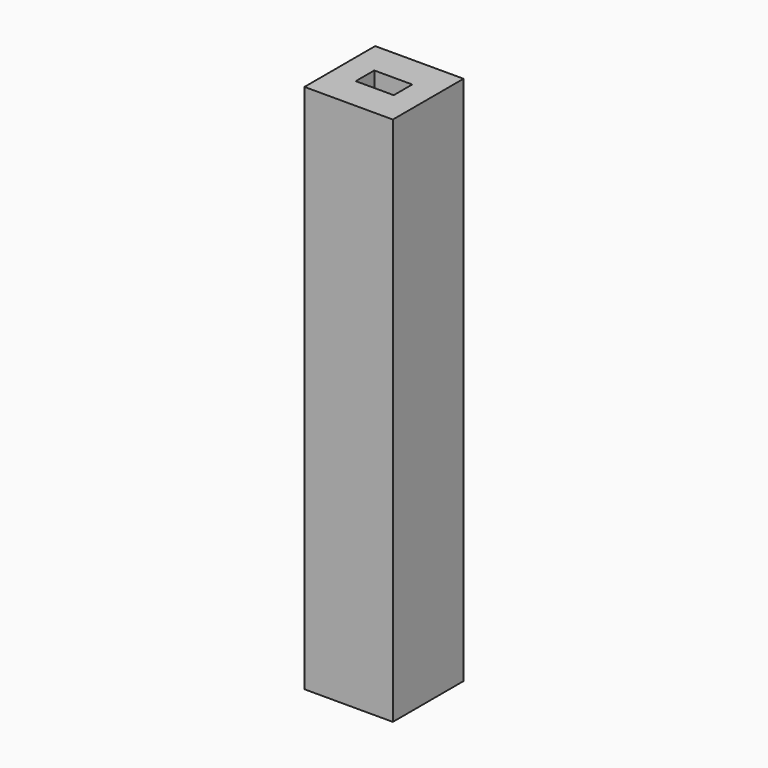
from build123d import *

# Parameters (mm, degrees)
SKETCH_W   = 500
SKETCH_H   = 500
SKETCH_W_2 = 215
SKETCH_H_2 = 131
PAD_DEPTH  = 1500


with BuildPart() as part:
    # Sketch → Pad (new body, symmetric)
    with BuildSketch(Plane.XY):
        Rectangle(SKETCH_W, SKETCH_H)
        Rectangle(SKETCH_W_2, SKETCH_H_2, mode=Mode.SUBTRACT)
    extrude(amount=PAD_DEPTH, both=True)


solid = part.part
